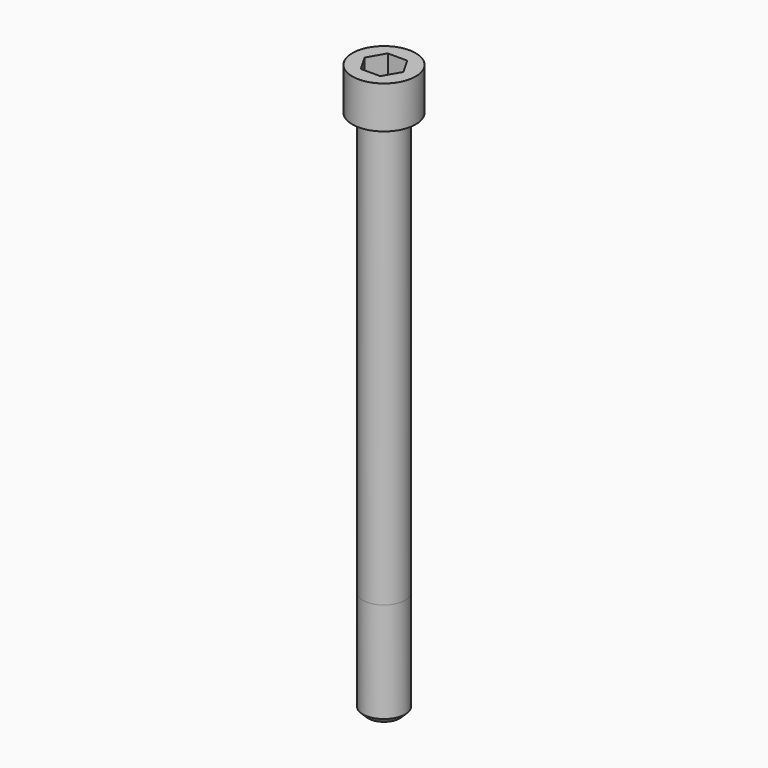
from build123d import *

# Parameters (mm, degrees)
POCKET_DEPTH = 19.15


with BuildPart() as part:
    # Sketch → Revolve (revolve)
    with BuildSketch(Plane.YZ):
        with BuildLine():
            Line((11.999, 0), (18, 0))
            Line((18, 0), (18, 23.97229))
            ThreePointArc((18, 23.97229), (17.991884, 23.991884), (17.97229, 24))
            Line((17.97229, 24), (0, 24))
            Line((0, -300), (0, 24))
            Line((9, -300), (0, -300))
            Line((12, -297), (9, -300))
            Line((12, -240), (12, -297))
            Line((11.999, 0), (12, -240))
        make_face()
    revolve(axis=Axis((0, 0, 0), (0, 0, 1)))

    # Sketch001 → Pocket (cut)
    with BuildSketch(Plane.XY.offset(24)):
        Polygon((11.056258, 0), (5.528129, 9.575), (-5.528129, 9.575), (-11.056258, 0), (-5.528129, -9.575), (5.528129, -9.575), align=None)
    extrude(amount=-POCKET_DEPTH, mode=Mode.SUBTRACT)


solid = part.part
